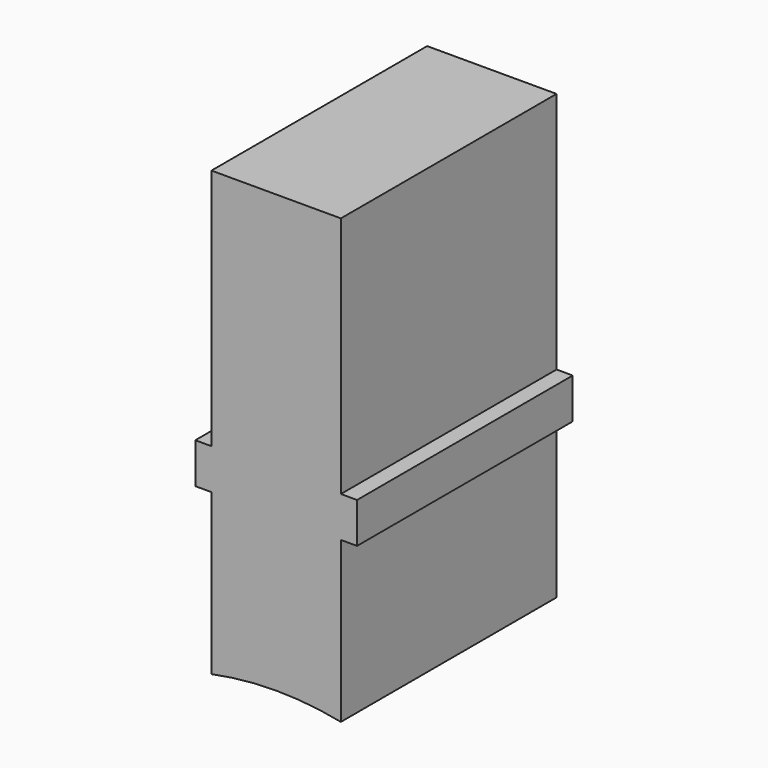
from build123d import *

# Parameters (mm, degrees)
F0_W     = 1.5
F0_H     = 3.75
F0_W_2   = 12
F0_H_2   = 1.5
F0_H_3   = 21
F1_DEPTH = 25


with BuildPart() as f1:
    # F0 (on Front) → F1 (new body)
    with BuildSketch(Plane.XZ):
        with Locations((6.75, 46.125)):
            Rectangle(F0_W, F0_H)
        with Locations((-6.75, 46.125)):
            Rectangle(F0_W, F0_H)
        with Locations((0, 69.75)):
            Rectangle(F0_W_2, F0_H_2)
        with Locations((0, 58.5)):
            Rectangle(F0_W_2, F0_H_3)
        with Locations((0, 46.125)):
            Rectangle(F0_W_2, F0_H)
        with BuildLine():
            ThreePointArc((-6, 29.3938769134), (0, 30), (6, 29.3938769134))
            Line((6, 29.3938769134), (6, 44.25))
            Line((6, 44.25), (-6, 44.25))
            Line((-6, 44.25), (-6, 29.3938769134))
        make_face()
    extrude(amount=F1_DEPTH)


solid = f1.part
